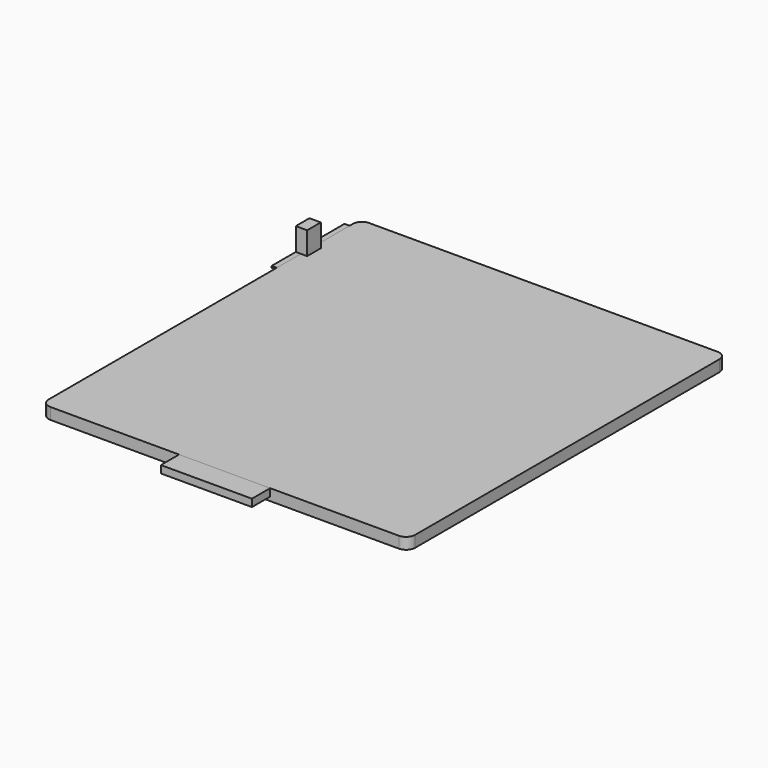
from build123d import *

# Parameters (mm, degrees)
BOX001_W     = 16
BOX001_H     = 4
BOX001_DEPTH = 1.3
BOX_W        = 64.4
BOX_H        = 70
BOX_DEPTH    = 2
FILLET_R     = 1.6
BOX002_W     = 0.9
BOX002_H     = 16
BOX002_DEPTH = 0.3
BOX003_W     = 2
BOX003_H     = 3
BOX003_DEPTH = 6


with BuildPart() as cube001:
    # Box001 → Box001 (new body)
    with BuildSketch(Plane(origin=(-8, -4, 0.7), x_dir=(1, 0, 0), z_dir=(0, 0, 1))):
        with Locations((8, 2)):
            Rectangle(BOX001_W, BOX001_H)
    extrude(amount=BOX001_DEPTH)


with BuildPart() as fillet_body:
    # Box → Box (new body)
    with BuildSketch(Plane(origin=(-32.2, 0, 0), x_dir=(1, 0, 0), z_dir=(0, 0, 1))):
        with Locations((32.2, 35)):
            Rectangle(BOX_W, BOX_H)
    extrude(amount=BOX_DEPTH)

    # Fillet
    fillet_edges = [fillet_body.edges().sort_by_distance(p)[0] for p in [
        (-32.2, 0, 1),
        (-32.2, 70, 1),
        (32.2, 0, 1),
        (32.2, 70, 1),
    ]]
    fillet(fillet_edges, radius=FILLET_R)


with BuildPart() as cube002:
    # Box002 → Box002 (new body)
    with BuildSketch(Plane(origin=(32.2, 51.7, 1.7), x_dir=(1, 0, 0), z_dir=(0, 0, 1))):
        with Locations((0.45, 8)):
            Rectangle(BOX002_W, BOX002_H)
    extrude(amount=BOX002_DEPTH)


with BuildPart() as part_mirroring:
    # Part__Mirroring: instance of Cube002
    add(cube002.part.mirror(Plane(origin=(0, 0, 0), x_dir=(0, -1, 0), z_dir=(1, 0, 0))))


with BuildPart() as cube003:
    # Box003 → Box003 (new body)
    with BuildSketch(Plane(origin=(31.1, 57, 0), x_dir=(1, 0, 0), z_dir=(0, 0, 1))):
        with Locations((1, 1.5)):
            Rectangle(BOX003_W, BOX003_H)
    extrude(amount=BOX003_DEPTH)


with BuildPart() as part_mirroring001:
    # Part__Mirroring001: instance of Cube003
    add(cube003.part.mirror(Plane(origin=(0, 0, 0), x_dir=(0, -1, 0), z_dir=(1, 0, 0))))


solid = Compound([cube001.part, fillet_body.part, part_mirroring.part, part_mirroring001.part])
